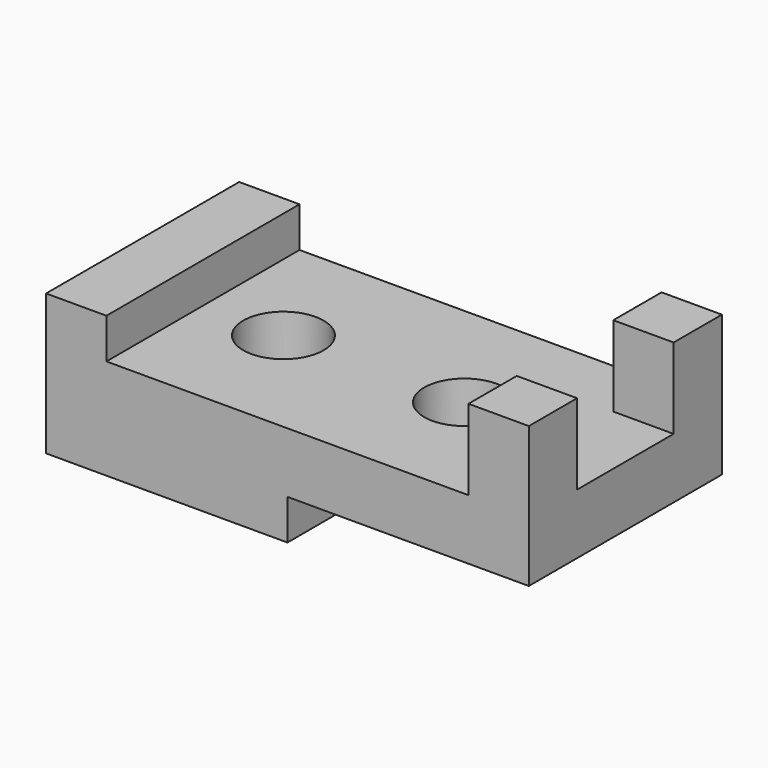
from build123d import *

# Parameters (mm, degrees)
F0_W     = 120
F0_H     = 60
F1_DEPTH = 45
F2_W     = 60
F2_H     = 10
F3_DEPTH = 60
F4_W     = 30
F4_H     = 20
F5_DEPTH = 15
F6_R     = 10
F7_DEPTH = 25


with BuildPart() as f1:
    # F0 (on Top) → F1 (new body)
    with BuildSketch(Plane.XY):
        with Locations((-23.562064, 34.864511)):
            Rectangle(F0_W, F0_H)
    extrude(amount=F1_DEPTH)

    # F2 (on face) → F3 (cut)
    with BuildSketch(Plane.XZ.offset(-4.864511)):
        Polygon((-83.562064, 45), (-83.562064, 35), (-68.562064, 35), (-68.562064, 25), (21.437936, 25), (21.437936, 45), align=None)
        with Locations((6.437936, 5)):
            Rectangle(F2_W, F2_H)
    extrude(amount=-F3_DEPTH, mode=Mode.SUBTRACT)

    # F4 (on face) → F5 (cut)
    with BuildSketch(Plane.YZ.offset(36.437936)):
        with Locations((34.864511, 35)):
            Rectangle(F4_W, F4_H)
    extrude(amount=-F5_DEPTH, mode=Mode.SUBTRACT)

    # F6 (on face) → F7 (cut)
    with BuildSketch(Plane.XY.offset(25)):
        with Locations((-48.562064, 34.864511)):
            Circle(F6_R)
        with Locations((-3.562064, 34.864511)):
            Circle(F6_R)
    extrude(amount=-F7_DEPTH, mode=Mode.SUBTRACT)


solid = f1.part
